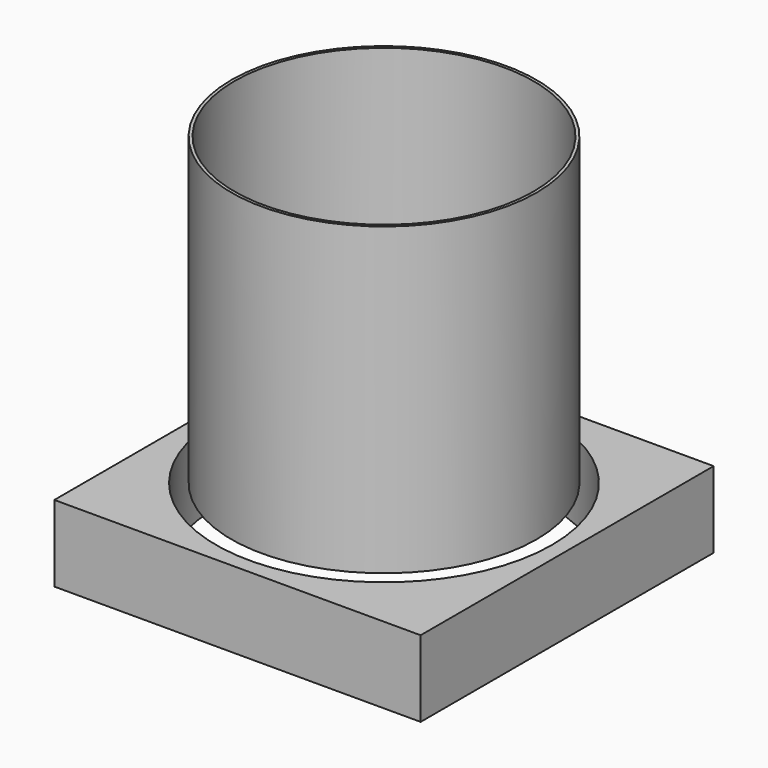
from build123d import *

# Parameters (mm, degrees)
F0_W     = 120
F0_H     = 120
F0_R     = 55
F1_DEPTH = 25
F2_R     = 50
F2_R_2   = 49
F3_DEPTH = 100


with BuildPart() as f1:
    # F0 (on Top) → F1 (new body)
    with BuildSketch(Plane.XY):
        Rectangle(F0_W, F0_H)
        Circle(F0_R, mode=Mode.SUBTRACT)
    extrude(amount=F1_DEPTH)


with BuildPart() as f3:
    # F2 (on face) → F3 (new body)
    with BuildSketch(Plane.XY.offset(25)):
        Circle(F2_R)
        Circle(F2_R_2, mode=Mode.SUBTRACT)
    extrude(amount=F3_DEPTH)


solid = Compound([f1.part, f3.part])
